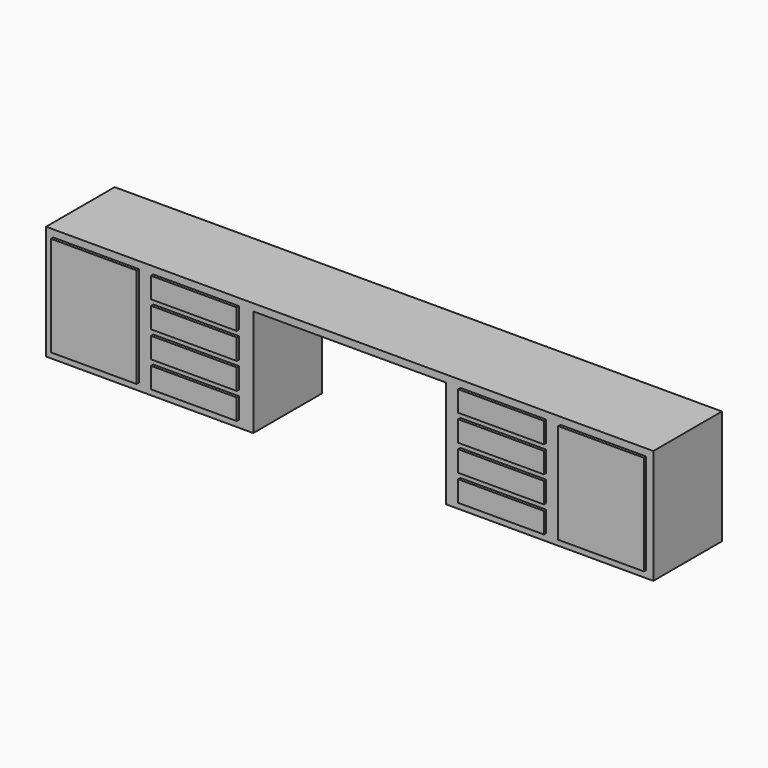
from build123d import *

# Parameters (mm, degrees)
F0_W     = 4250
F0_H     = 600
F1_DEPTH = 800
F2_W     = 600
F2_H     = 700
F2_H_2   = 145
F3_DEPTH = 20
F2_W_2   = 1350
F2_H_3   = 750
F4_DEPTH = 700


with BuildPart() as f1:
    # F0 (on Top) → F1 (new body)
    with BuildSketch(Plane.XY):
        Rectangle(F0_W, F0_H)
    extrude(amount=F1_DEPTH)

    # F2 (on face) → F3 (join)
    with BuildSketch(Plane.XZ.offset(300)):
        with Locations((-1775, 400)):
            Rectangle(F2_W, F2_H)
        with Locations((-1075, 677.5)):
            Rectangle(F2_W, F2_H_2)
        with Locations((-1075, 492.5)):
            Rectangle(F2_W, F2_H_2)
        with Locations((-1075, 307.5)):
            Rectangle(F2_W, F2_H_2)
        with Locations((-1075, 122.5)):
            Rectangle(F2_W, F2_H_2)
        with Locations((1075, 677.5)):
            Rectangle(F2_W, F2_H_2)
        with Locations((1075, 492.5)):
            Rectangle(F2_W, F2_H_2)
        with Locations((1075, 307.5)):
            Rectangle(F2_W, F2_H_2)
        with Locations((1075, 122.5)):
            Rectangle(F2_W, F2_H_2)
        with Locations((1775, 400)):
            Rectangle(F2_W, F2_H)
    extrude(amount=F3_DEPTH)

    # F2 (on face) → F4 (cut)
    with BuildSketch(Plane.XZ.offset(300)):
        with Locations((0, 375)):
            Rectangle(F2_W_2, F2_H_3)
    extrude(amount=-F4_DEPTH, mode=Mode.SUBTRACT)


solid = f1.part
